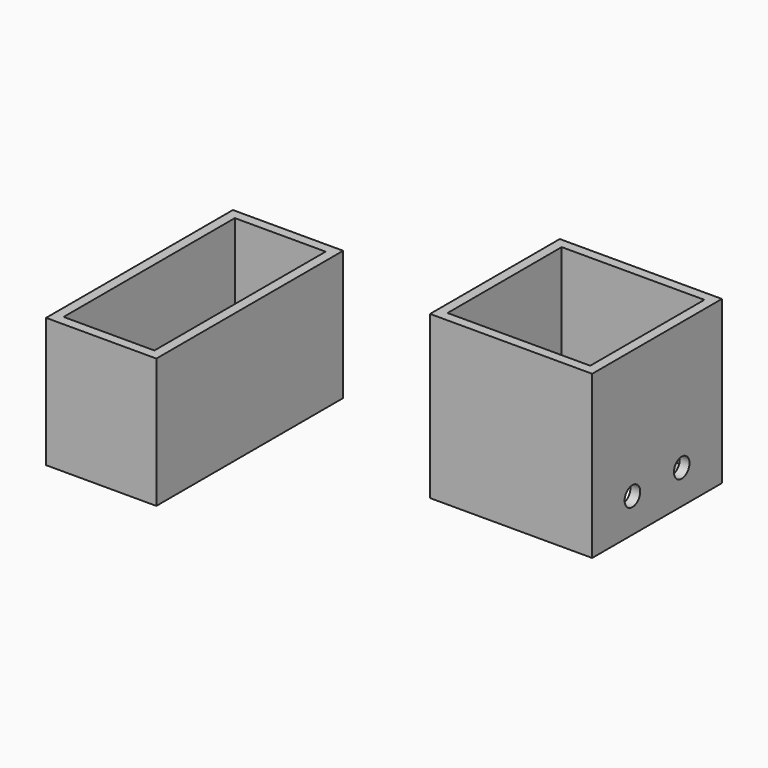
from build123d import *

# Parameters (mm, degrees)
F0_W      = 17
F0_H      = 36
F1_DEPTH  = 20
F2_T      = -1.5
F3_W      = 25
F3_H      = 25
F4_DEPTH  = 25
F5_T      = -1.5
F7_W      = 17
F7_H      = 17
F8_DEPTH  = 25
F9_R      = 1.5
F10_DEPTH = 63.5
F6_R      = 1.5
F11_DEPTH = 10


with BuildPart() as f1:
    # F0 (on Top) → F1 (new body)
    with BuildSketch(Plane.XY):
        with Locations((-28.318797, 26.120505)):
            Rectangle(F0_W, F0_H)
    extrude(amount=F1_DEPTH)

    # F2
    f2_openings = [f1.faces().sort_by_distance(p)[0] for p in [
        (-28.318797, 26.120505, 20),
    ]]
    offset(amount=F2_T, openings=f2_openings)

    # F9 (on face) → F10 (cut)
    with BuildSketch(Plane.XY.offset(1.5)):
        with Locations((-28.318797, 36.120505)):
            Circle(F9_R)
        with Locations((-28.318797, 14.120505)):
            Circle(F9_R)
    extrude(amount=-F10_DEPTH, mode=Mode.SUBTRACT)


with BuildPart() as f4:
    # F3 (on Top) → F4 (new body)
    with BuildSketch(Plane.XY):
        with Locations((17.132554, 42.797711)):
            Rectangle(F3_W, F3_H)
    extrude(amount=F4_DEPTH)

    # F5
    f5_openings = [f4.faces().sort_by_distance(p)[0] for p in [
        (17.132554, 42.797711, 25),
    ]]
    offset(amount=F5_T, openings=f5_openings)

    # F7 (on face) → F8 (cut)
    with BuildSketch(Plane.XY.offset(1.5)):
        with Locations((17.132554, 42.797711)):
            Rectangle(F7_W, F7_H)
    extrude(amount=-F8_DEPTH, mode=Mode.SUBTRACT)

    # F6 (on face) → F11 (cut)
    with BuildSketch(Plane.YZ.offset(29.632554)):
        with Locations((38.047711, 5.25)):
            Circle(F6_R)
        with Locations((47.547711, 5.25)):
            Circle(F6_R)
    extrude(amount=-F11_DEPTH, mode=Mode.SUBTRACT)


solid = Compound([f1.part, f4.part])
